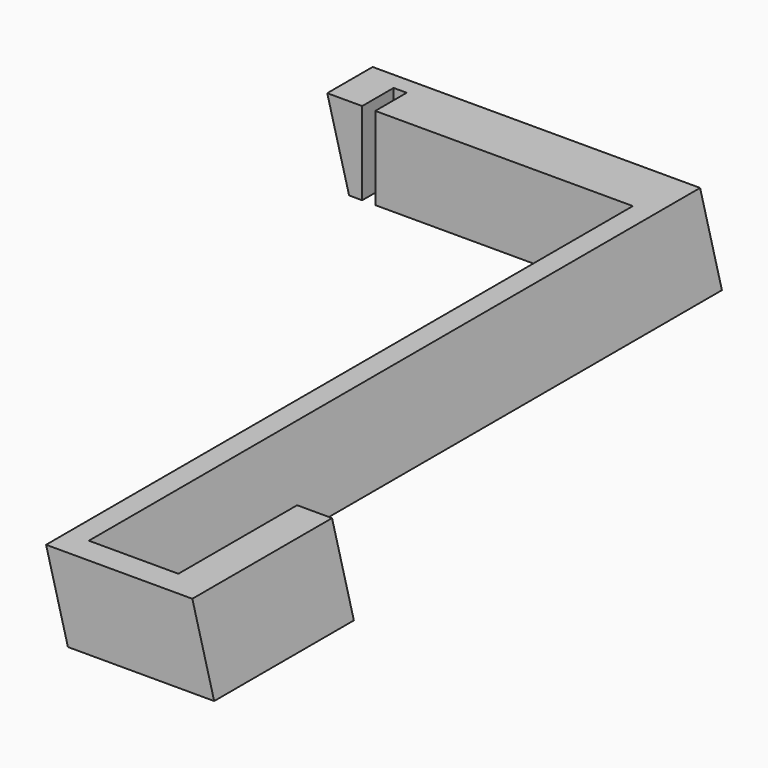
from build123d import *

# Parameters (mm, degrees)
F4_W     = 3
F4_H     = 9
F5_DEPTH = 25


with BuildPart() as f3:
    # F0 (on Top) → F3 section 0
    with BuildSketch(Plane.XY):
        Polygon((-66.641917, 50.499433), (-56.641917, 50.499433), (3.358083, 50.499433), (3.358083, -117.500567), (36.858083, -117.500567), (36.858083, -77.500567), (28.858083, -77.500567), (28.858083, -111.500567), (8.358083, -111.500567), (8.358083, 63.499433), (-66.641917, 63.499433), align=None)
    # F2 (on offset) → F3 section 1
    with BuildSketch(Plane.XY.offset(19)):
        Polygon((-71.641917, 50.499433), (-61.641917, 50.499433), (-1.641917, 50.499433), (-1.641917, -117.500567), (31.858083, -117.500567), (31.858083, -77.500567), (23.858083, -77.500567), (23.858083, -111.500567), (3.358083, -111.500567), (3.358083, 63.499433), (-71.641917, 63.499433), align=None)
    loft()

    # F4 (on face) → F5 (cut)
    with BuildSketch(Plane.XY.offset(19)):
        with Locations((-62.141917, 54.999433)):
            Rectangle(F4_W, F4_H)
    extrude(amount=-F5_DEPTH, mode=Mode.SUBTRACT)


solid = f3.part
